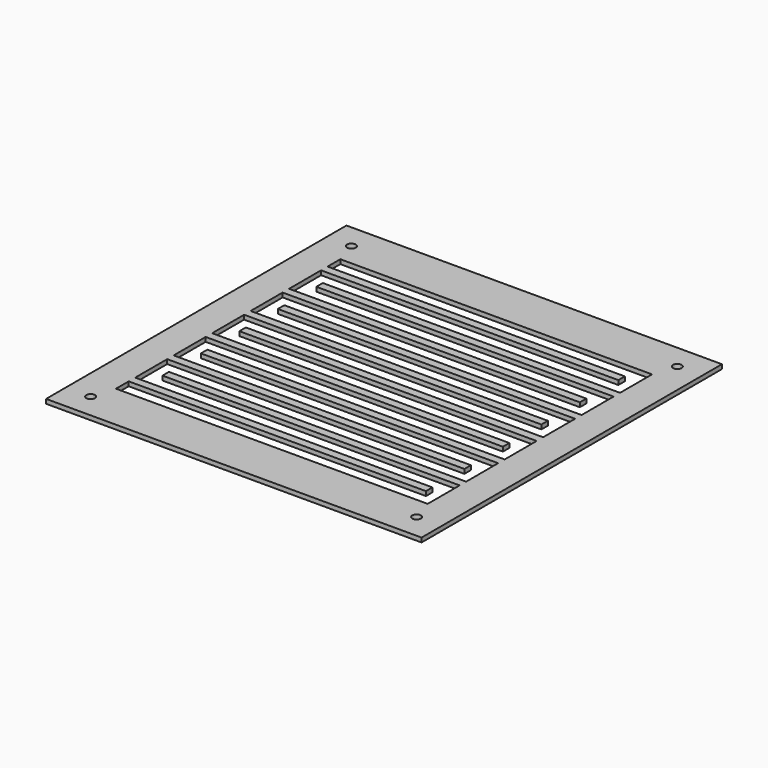
from build123d import *

# Parameters (mm, degrees)
SKETCH005_W            = 259.2
SKETCH005_H            = 259.2
PAD003_DEPTH           = 3
SKETCH006_W            = 215.2
SKETCH006_H            = 11
POCKET002_DEPTH        = 3.001
LINEARPATTERN004_COUNT = 12
LINEARPATTERN004_PITCH = 16.6
SKETCH009_W            = 10
SKETCH009_H            = 27.6
POCKET004_DEPTH        = 742.153863
LINEARPATTERN006_COUNT = 6
LINEARPATTERN006_PITCH = 33.2
SKETCH010_W            = 10
SKETCH010_H            = 27.6
POCKET005_DEPTH        = 9.001
LINEARPATTERN007_COUNT = 5
LINEARPATTERN007_PITCH = 33.2
SKETCH012_R            = 3
POCKET007_DEPTH        = 9.001


with BuildPart() as part:
    # Sketch005 → Pad003 (new body)
    with BuildSketch(Plane.XY.offset(-6)):
        Rectangle(SKETCH005_W, SKETCH005_H)
    extrude(amount=-PAD003_DEPTH)

    # Sketch006 (on Face6 of Pad003) → Pocket002 (cut, through all)
    with BuildSketch(Plane(origin=(0, 0, -9), x_dir=(1, 0, 0), z_dir=(0, 0, -1))):
        with Locations((0, 91.3)):
            Rectangle(SKETCH006_W, SKETCH006_H)
    pocket002 = extrude(amount=-POCKET002_DEPTH, mode=Mode.SUBTRACT)

    # LinearPattern004: Pocket002 ×12
    with Locations(*[(0, i * LINEARPATTERN004_PITCH, 0) for i in range(1, LINEARPATTERN004_COUNT)]):
        add(pocket002, mode=Mode.SUBTRACT)

    # Sketch009 → Pocket004 (cut, through all)
    with BuildSketch(Plane.XY):
        with Locations((102.6, 83)):
            Rectangle(SKETCH009_W, SKETCH009_H)
    pocket004 = extrude(amount=-POCKET004_DEPTH, mode=Mode.SUBTRACT)

    # LinearPattern006: Pocket004 ×6
    with Locations(*[(0, -i * LINEARPATTERN006_PITCH, 0) for i in range(1, LINEARPATTERN006_COUNT)]):
        add(pocket004, mode=Mode.SUBTRACT)

    # Sketch010 → Pocket005 (cut, through all)
    with BuildSketch(Plane.XY):
        with Locations((-102.6, 66.4)):
            Rectangle(SKETCH010_W, SKETCH010_H)
    pocket005 = extrude(amount=-POCKET005_DEPTH, mode=Mode.SUBTRACT)

    # LinearPattern007: Pocket005 ×5
    with Locations(*[(0, -i * LINEARPATTERN007_PITCH, 0) for i in range(1, LINEARPATTERN007_COUNT)]):
        add(pocket005, mode=Mode.SUBTRACT)

    # Sketch012 → Pocket007 (cut, through all)
    with BuildSketch(Plane.XY):
        with Locations((-112.5, 112.5)):
            Circle(SKETCH012_R)
        with Locations((112.5, 112.5)):
            Circle(SKETCH012_R)
        with Locations((112.5, -112.5)):
            Circle(SKETCH012_R)
        with Locations((-112.5, -112.5)):
            Circle(SKETCH012_R)
    extrude(amount=-POCKET007_DEPTH, mode=Mode.SUBTRACT)


solid = part.part
